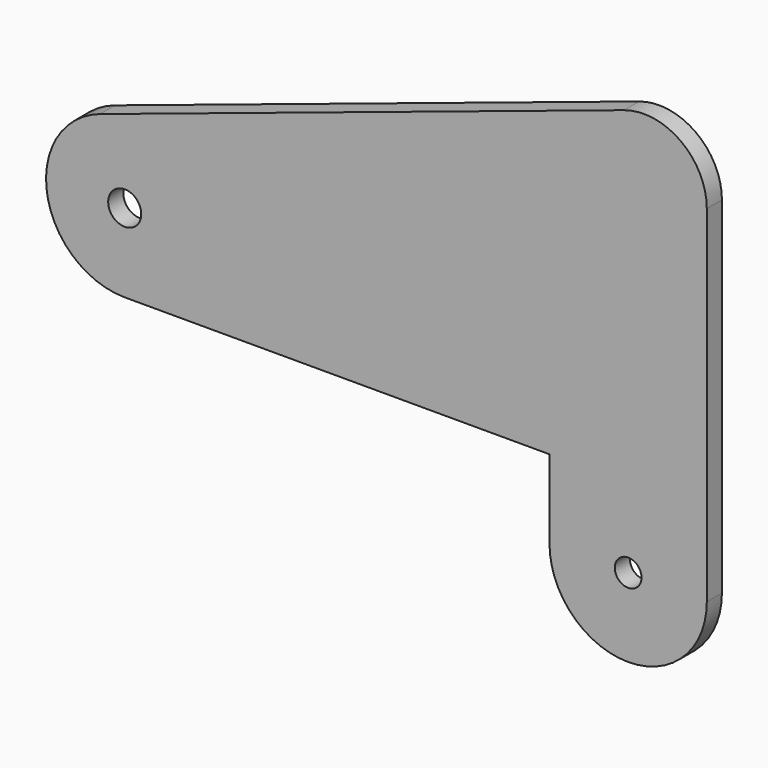
from build123d import *

# Parameters (mm, degrees)
F0_R     = 5.25
F0_R_2   = 4.25
F1_DEPTH = 6


with BuildPart() as f1:
    # F0 (on Front) → F1 (new body)
    with BuildSketch(Plane.XZ):
        with BuildLine():
            Line((-25, 25), (-25, 0))
            ThreePointArc((-25, 0), (0, -25), (25, 0))
            Line((25, 0), (25, 110))
            ThreePointArc((25, 110), (16.706063, 126.216291), (-1.296809, 128.982892))
            Line((-1.296809, 128.982892), (-167.871012, 73.728615))
            ThreePointArc((-167.871012, 73.728615), (-184.680107, 46.013484), (-160, 25))
            Line((-160, 25), (-25, 25))
        make_face()
        with Locations((-160, 50)):
            Circle(F0_R, mode=Mode.SUBTRACT)
        Circle(F0_R_2, mode=Mode.SUBTRACT)
    extrude(amount=F1_DEPTH)


solid = f1.part
